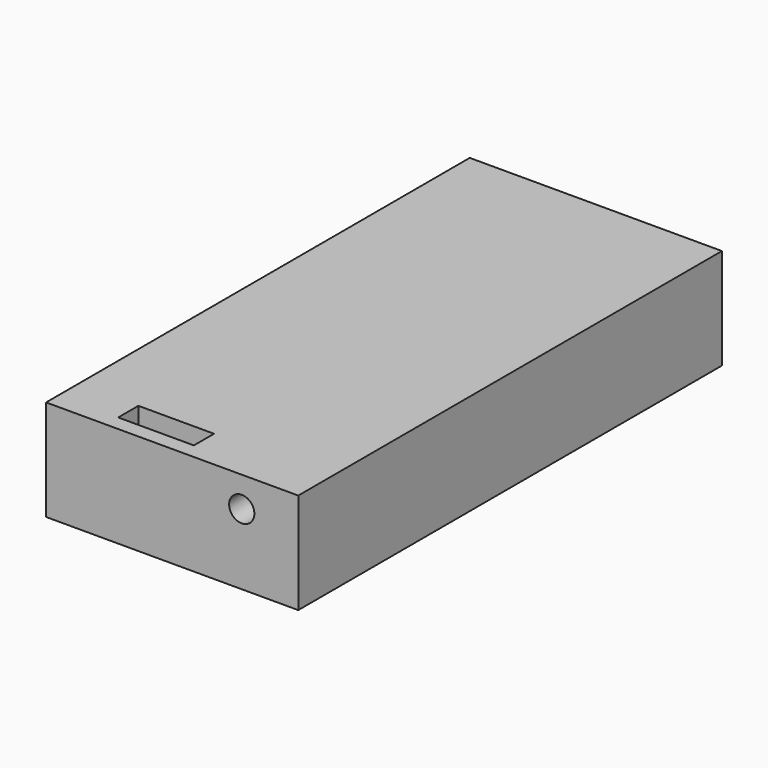
from build123d import *

# Parameters (mm, degrees)
F0_W     = 31.75
F0_H     = 12.7
F1_DEPTH = 66.675
F2_R     = 1.5875
F3_DEPTH = 25.4
F4_W     = 9.525
F4_H     = 3.175
F5_DEPTH = 3.175


with BuildPart() as f1:
    # F0 (on Front) → F1 (new body)
    with BuildSketch(Plane.XZ):
        with Locations((-96.787434, -12.355283)):
            Rectangle(F0_W, F0_H)
    extrude(amount=F1_DEPTH)

    # F2 (on face) → F3 (cut)
    with BuildSketch(Plane.XZ.offset(66.675)):
        with Locations((-88.027969, -9.819109)):
            Circle(F2_R)
    extrude(amount=-F3_DEPTH, mode=Mode.SUBTRACT)

    # F4 (on face) → F5 (cut)
    with BuildSketch(Plane.XY.offset(-6.005283)):
        with Locations((-100.361299, -63.160878)):
            Rectangle(F4_W, F4_H)
    extrude(amount=-F5_DEPTH, mode=Mode.SUBTRACT)


solid = f1.part
